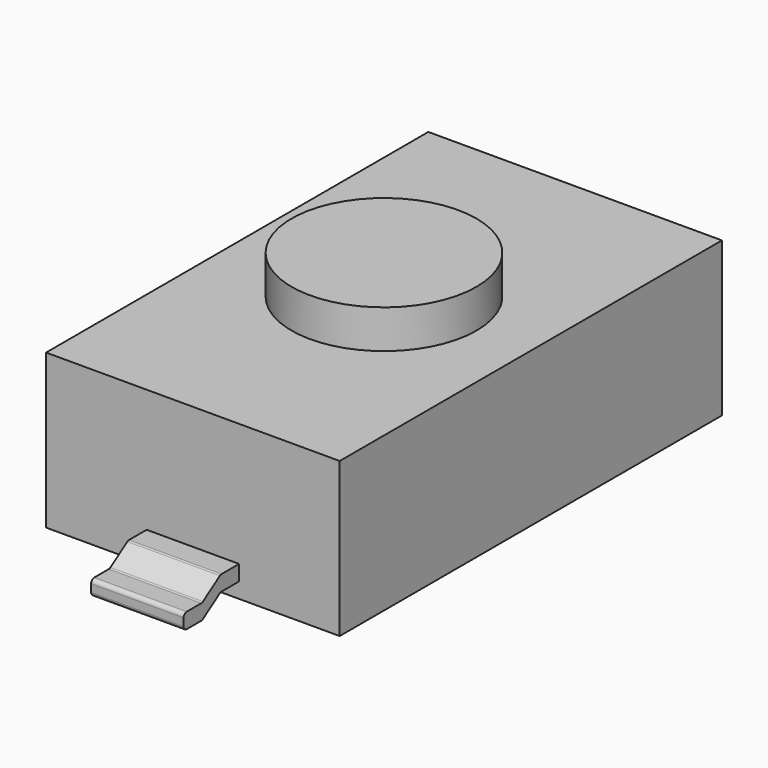
from build123d import *

# Parameters (mm, degrees)
F0_W          = 3.81
F0_H          = 6.2
F1_DEPTH      = 2
F2_R          = 1.2
F3_DEPTH      = 0.5
F5_DEPTH      = 0.6
F5_DEPTH_BACK = 0.6


with BuildPart() as f1:
    # F0 (on Top) → F1 (new body)
    with BuildSketch(Plane.XY):
        Rectangle(F0_W, F0_H)
    extrude(amount=F1_DEPTH)

    # F2 (on face) → F3 (join)
    with BuildSketch(Plane.XY.offset(2)):
        Circle(F2_R)
    extrude(amount=F3_DEPTH)

    # F4 (on Right) → F5 (join, two sides)
    with BuildSketch(Plane.YZ) as f5_sk:
        with BuildLine():
            Line((3.384861, 0.4), (3.1, 0.4))
            Line((3.1, 0.4), (3.1, 0.2))
            Line((3.1, 0.2), (3.384861, 0.2))
            ThreePointArc((3.384861, 0.2), (3.39935, 0.197855), (3.412596, 0.191603))
            Line((3.412596, 0.191603), (3.687404, 0.008397))
            ThreePointArc((3.687404, 0.008397), (3.70065, 0.002145), (3.715139, 0))
            Line((3.715139, 0), (3.95, 0))
            ThreePointArc((3.95, 0), (3.985355, 0.014645), (4, 0.05))
            Line((4, 0.05), (4, 0.15))
            ThreePointArc((4, 0.15), (3.985355, 0.185355), (3.95, 0.2))
            Line((3.95, 0.2), (3.715139, 0.2))
            ThreePointArc((3.715139, 0.2), (3.70065, 0.202145), (3.687404, 0.208397))
            Line((3.687404, 0.208397), (3.412596, 0.391603))
            ThreePointArc((3.412596, 0.391603), (3.39935, 0.397855), (3.384861, 0.4))
        make_face()
    extrude(amount=F5_DEPTH)
    extrude(f5_sk.sketch, amount=-F5_DEPTH_BACK)

    # F6: F1 across plane


with BuildPart() as f1_1:
    add(f1.part)
    add(f1.part.mirror(Plane.XZ))


solid = f1_1.part
